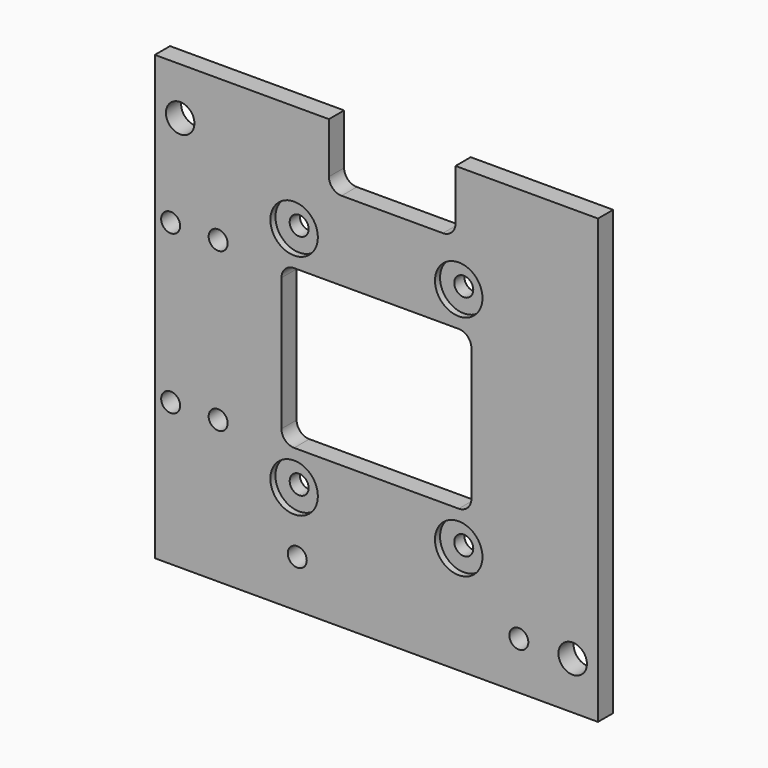
from build123d import *

# Parameters (mm, degrees)
F0_W     = 70
F0_H     = 70
F1_DEPTH = 3
F2_R     = 2.25
F2_R_2   = 1.5
F3_DEPTH = 3.001
F4_R     = 3.75
F5_DEPTH = 1
F6_R     = 1.5
F7_DEPTH = 3.001
F8_R     = 1.5
F9_DEPTH = 3.001


with BuildPart() as f1:
    # F0 (on Front) → F1 (new body)
    with BuildSketch(Plane.XZ):
        Rectangle(F0_W, F0_H)
    extrude(amount=F1_DEPTH)

    # F2 (on face) → F3 (cut, through all)
    with BuildSketch(Plane.XZ.offset(3)):
        with Locations((-31, 27.5)):
            Circle(F2_R)
        with Locations((31, -27.5)):
            Circle(F2_R)
        with Locations((-13, 18)):
            Circle(F2_R_2)
        with Locations((-13, -18)):
            Circle(F2_R_2)
        with Locations((13, 18)):
            Circle(F2_R_2)
        with Locations((13, -18)):
            Circle(F2_R_2)
        with BuildLine():
            Line((-13, -12.5), (13, -12.5))
            ThreePointArc((13, -12.5), (14.414214, -11.914214), (15, -10.5))
            Line((15, -10.5), (15, 10.5))
            ThreePointArc((15, 10.5), (14.414214, 11.914214), (13, 12.5))
            Line((13, 12.5), (-13, 12.5))
            ThreePointArc((-13, 12.5), (-14.414214, 11.914214), (-15, 10.5))
            Line((-15, 10.5), (-15, -10.5))
            ThreePointArc((-15, -10.5), (-14.414214, -11.914214), (-13, -12.5))
        make_face()
        with BuildLine():
            Line((12.5, 35), (-7.5, 35))
            Line((-7.5, 35), (-7.5, 27))
            ThreePointArc((-7.5, 27), (-6.914214, 25.585786), (-5.5, 25))
            Line((-5.5, 25), (10.5, 25))
            ThreePointArc((10.5, 25), (11.914214, 25.585786), (12.5, 27))
            Line((12.5, 27), (12.5, 35))
        make_face()
    extrude(amount=-F3_DEPTH, mode=Mode.SUBTRACT)

    # F4 (on face) → F5 (cut)
    with BuildSketch(Plane.XZ.offset(3)):
        with Locations((-13, 18)):
            Circle(F4_R)
        with Locations((13, 18)):
            Circle(F4_R)
        with Locations((-13, -18)):
            Circle(F4_R)
        with Locations((13, -18)):
            Circle(F4_R)
    extrude(amount=-F5_DEPTH, mode=Mode.SUBTRACT)

    # F6 (on face) → F7 (cut, through all)
    with BuildSketch(Plane.XZ.offset(3)):
        with Locations((-12.5, -27.5)):
            Circle(F6_R)
        with Locations((22.5, -27.5)):
            Circle(F6_R)
    extrude(amount=-F7_DEPTH, mode=Mode.SUBTRACT)

    # F8 (on face) → F9 (cut, through all)
    with BuildSketch(Plane.XZ.offset(3)):
        with Locations((-25, -12.5)):
            Circle(F8_R)
        with Locations((-25, 12.5)):
            Circle(F8_R)
        with Locations((-32.5, -12.5)):
            Circle(F8_R)
        with Locations((-32.5, 12.5)):
            Circle(F8_R)
    extrude(amount=-F9_DEPTH, mode=Mode.SUBTRACT)


solid = f1.part
